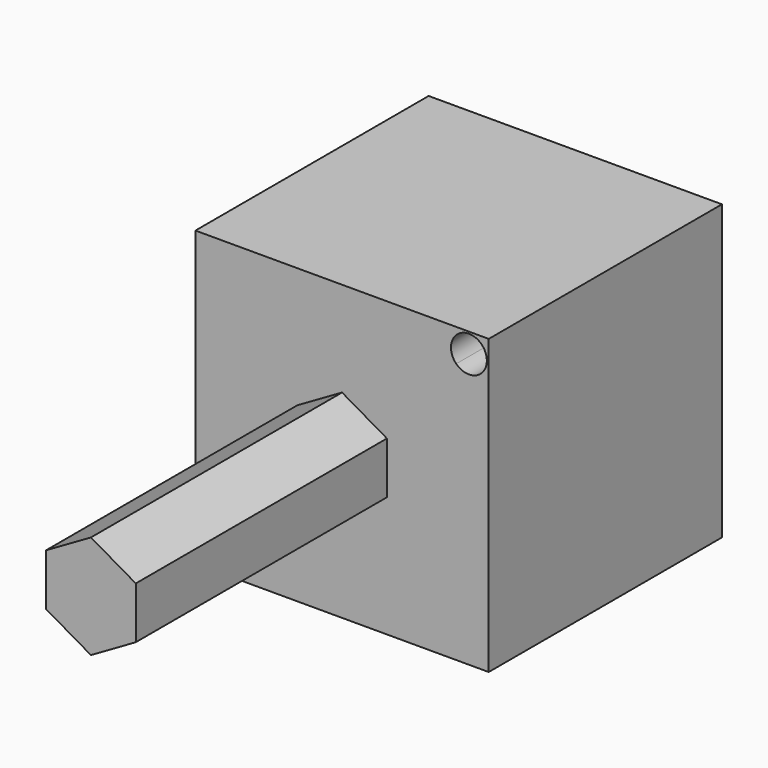
from build123d import *

# Parameters (mm, degrees)
F0_W     = 41.529
F0_H     = 41.529
F1_DEPTH = 41.275
F3_DEPTH = 44.45
F5_DEPTH = 127


with BuildPart() as f1:
    # F0 (on Front) → F1 (new body)
    with BuildSketch(Plane.XZ):
        with Locations((20.7645, -20.7645)):
            Rectangle(F0_W, F0_H)
    extrude(amount=F1_DEPTH)

    # F4 (on face) → F5 (cut)
    with BuildSketch(Plane.XZ.offset(41.275)):
        with BuildLine():
            ThreePointArc((5.343988, -38.725012), (5.150642, -37.752996), (4.600039, -36.928961))
            ThreePointArc((4.600039, -36.928961), (0.457334, -39.697028), (5.343988, -38.725012))
        make_face()
        with BuildLine():
            ThreePointArc((36.928961, -4.600039), (39.697028, -5.150642), (41.265012, -2.803988))
            ThreePointArc((41.265012, -2.803988), (37.752996, -0.457334), (36.928961, -4.600039))
        make_face()
    extrude(amount=-F5_DEPTH, mode=Mode.SUBTRACT)


with BuildPart() as f3:
    # F2 (on face) → F3 (new body)
    with BuildSketch(Plane.XZ.offset(41.275)):
        Polygon((20.7645, -13.432152), (20.7645, -20.7645), (27.1145, -20.7645), (27.1145, -17.098326), align=None)
        Polygon((27.1145, -20.7645), (20.7645, -20.7645), (14.4145, -20.7645), (14.4145, -24.430674), (20.7645, -28.096848), (27.1145, -24.430674), align=None)
        Polygon((27.1145, -20.7645), (20.7645, -20.7645), (14.4145, -20.7645), (14.4145, -24.430674), (20.7645, -28.096848), (27.1145, -24.430674), align=None)
        Polygon((14.4145, -20.7645), (20.7645, -20.7645), (20.7645, -13.432152), (14.4145, -17.098326), align=None)
    extrude(amount=F3_DEPTH)


solid = Compound([f1.part, f3.part])
